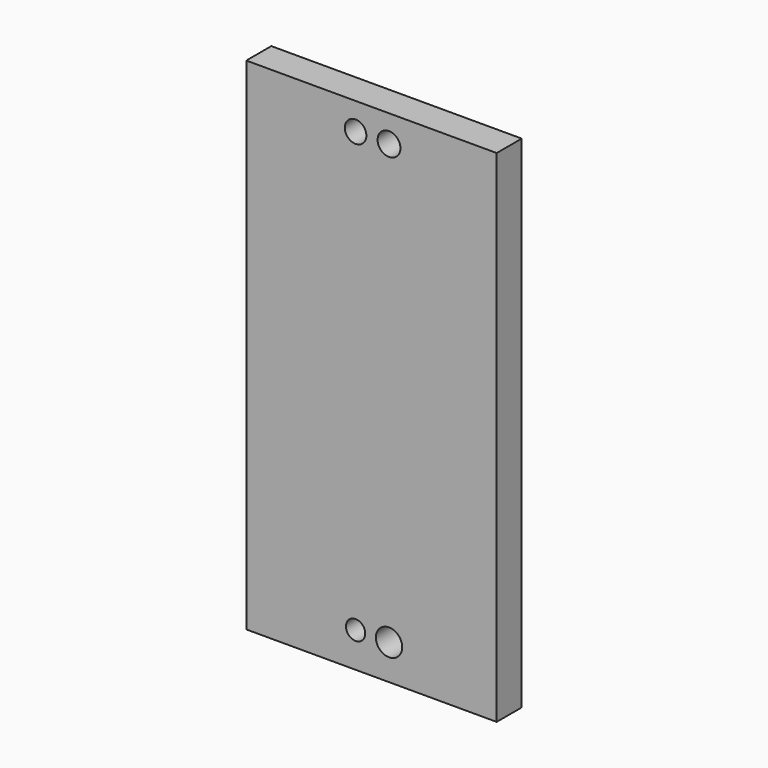
from build123d import *

# Parameters (mm, degrees)
F0_W     = 152.4
F0_H     = 304.8
F1_DEPTH = 19.05
F2_R     = 6.562995
F2_R_2   = 6.955131
F2_R_3   = 5.87011
F2_R_4   = 8.017337
F3_DEPTH = 25.4


with BuildPart() as f1:
    # F0 (on Front) → F1 (new body)
    with BuildSketch(Plane.XZ):
        with Locations((76.2, 152.4)):
            Rectangle(F0_W, F0_H)
    extrude(amount=-F1_DEPTH)

    # F2 (on face) → F3 (cut)
    with BuildSketch(Plane.XZ):
        with Locations((66.522568, 288.33434)):
            Circle(F2_R)
        with Locations((86.873502, 288.33434)):
            Circle(F2_R_2)
        with Locations((66.522568, 21.329993)):
            Circle(F2_R_3)
        with Locations((86.873502, 21.329993)):
            Circle(F2_R_4)
    extrude(amount=-F3_DEPTH, mode=Mode.SUBTRACT)


solid = f1.part
